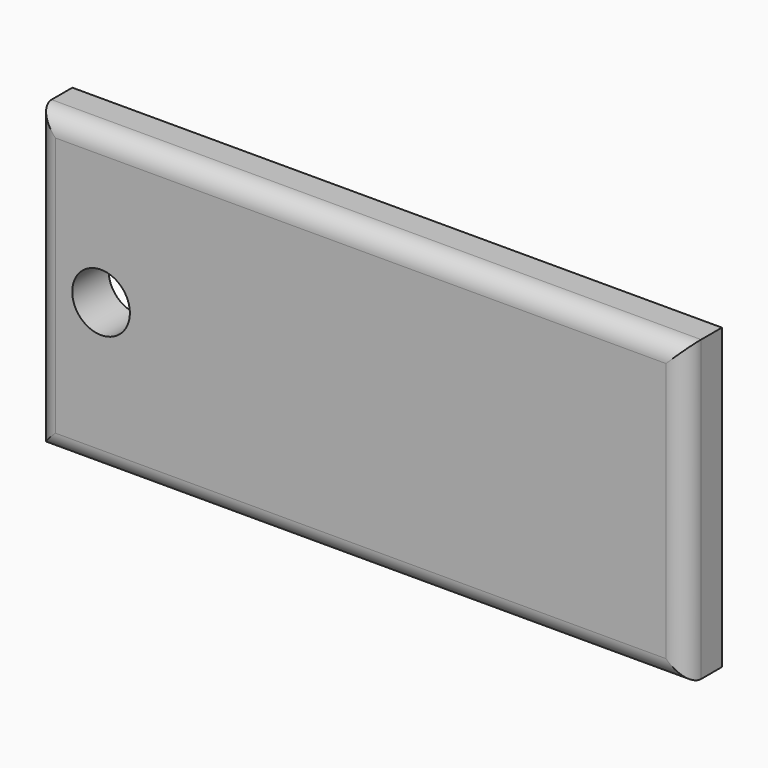
from build123d import *

# Parameters (mm, degrees)
F0_W     = 50
F0_H     = 23
F0_R     = 2.21862
F1_DEPTH = 3.5
F2_R     = 1.5


with BuildPart() as f1:
    # F0 (on Front) → F1 (new body)
    with BuildSketch(Plane.XZ):
        Rectangle(F0_W, F0_H)
        with Locations((-19.98966, 0)):
            Circle(F0_R, mode=Mode.SUBTRACT)
    extrude(amount=F1_DEPTH)

    # F2
    f2_edges = [f1.edges().sort_by_distance(p)[0] for p in [
        (0, -3.5, -11.5),
        (-25, -3.5, 0),
        (25, -3.5, 0),
        (0, -3.5, 11.5),
    ]]
    fillet(f2_edges, radius=F2_R)


solid = f1.part
